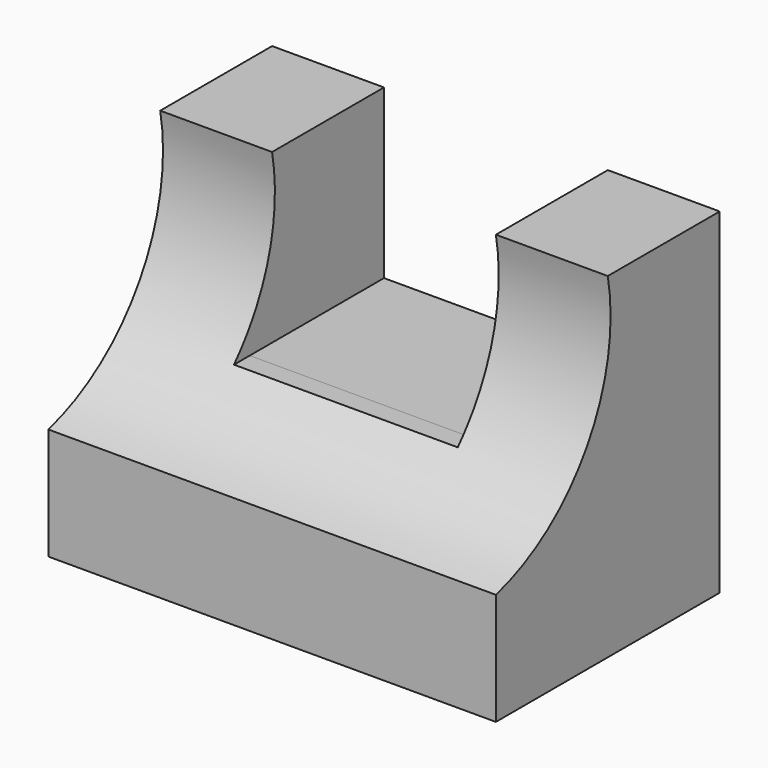
from build123d import *

# Parameters (mm, degrees)
F0_W     = 50.8
F0_H     = 38.1
F1_DEPTH = 31.75
F2_W     = 25.4
F2_H     = 19.05
F3_DEPTH = 19.05
F5_DEPTH = 50.8
F6_W     = 25.4
F6_H     = 2.876205
F7_DEPTH = 25.4


with BuildPart() as f1:
    # F0 (on Front) → F1 (new body)
    with BuildSketch(Plane.XZ):
        with Locations((25.4, 19.05)):
            Rectangle(F0_W, F0_H)
    extrude(amount=F1_DEPTH)

    # F2 (on face) → F3 (cut)
    with BuildSketch(Plane(origin=(0, 0, 0), x_dir=(-1, 0, 0), z_dir=(0, 1, 0))):
        with Locations((-25.4, 28.575)):
            Rectangle(F2_W, F2_H)
    extrude(amount=-F3_DEPTH, mode=Mode.SUBTRACT)

    # F4 (on face) → F5 (cut)
    with BuildSketch(Plane.YZ.offset(50.8)):
        with BuildLine():
            Line((-31.75, 38.1), (-31.75, 12.7))
            ThreePointArc((-31.75, 12.7), (-18.823098, 22.281624), (-15.875, 38.1))
            Line((-15.875, 38.1), (-31.75, 38.1))
        make_face()
    extrude(amount=-F5_DEPTH, mode=Mode.SUBTRACT)

    # F6 (on face) → F7 (cut)
    with BuildSketch(Plane(origin=(0, -19.05, 0), x_dir=(-1, 0, 0), z_dir=(0, 1, 0))):
        with Locations((-25.4, 20.488103)):
            Rectangle(F6_W, F6_H)
    extrude(amount=-F7_DEPTH, mode=Mode.SUBTRACT)


solid = f1.part
